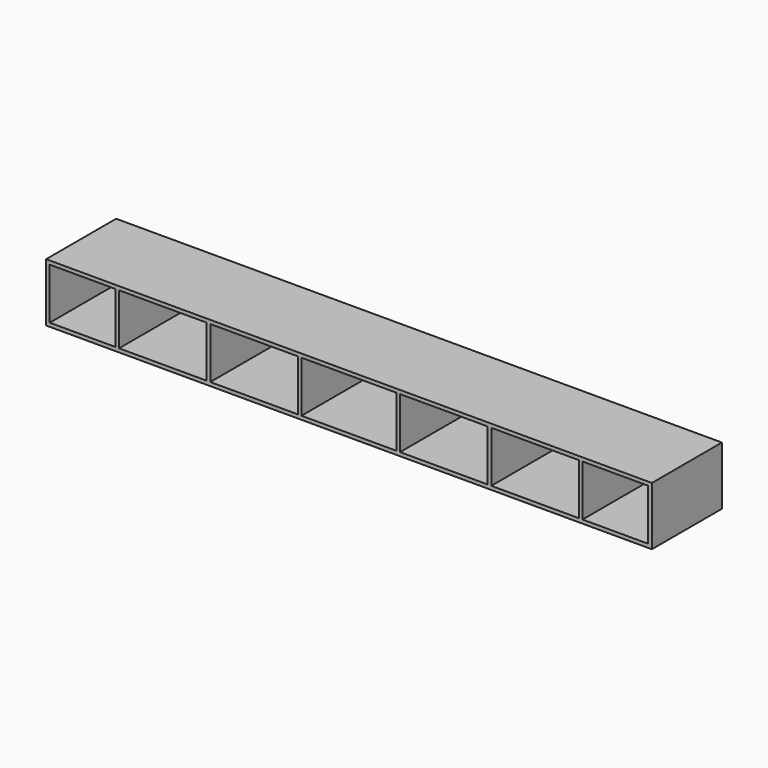
from build123d import *

# Parameters (mm, degrees)
F0_W     = 2108.2
F0_H     = 203.2
F1_DEPTH = 304.8
F2_T     = -12.7
F3_W     = 12.7
F3_H     = 177.8
F4_DEPTH = 292.1


with BuildPart() as f1:
    # F0 (on Front) → F1 (new body)
    with BuildSketch(Plane.XZ):
        with Locations((2.945067, -238.425421)):
            Rectangle(F0_W, F0_H)
    extrude(amount=F1_DEPTH)

    # F2
    f2_openings = [f1.faces().sort_by_distance(p)[0] for p in [
        (2.945067, -304.8, -238.425421),
    ]]
    offset(amount=F2_T, openings=f2_openings)

    # F3 (on face) → F4 (join)
    with BuildSketch(Plane.XZ.offset(12.7)):
        with Locations((-803.504933, -238.425421)):
            Rectangle(F3_W, F3_H)
        with Locations((-486.004933, -238.425421)):
            Rectangle(F3_W, F3_H)
        with Locations((-168.504933, -238.425421)):
            Rectangle(F3_W, F3_H)
        with Locations((174.395067, -238.425421)):
            Rectangle(F3_W, F3_H)
        with Locations((491.895067, -238.425421)):
            Rectangle(F3_W, F3_H)
        with Locations((809.395067, -238.425421)):
            Rectangle(F3_W, F3_H)
    extrude(amount=F4_DEPTH)


solid = f1.part
